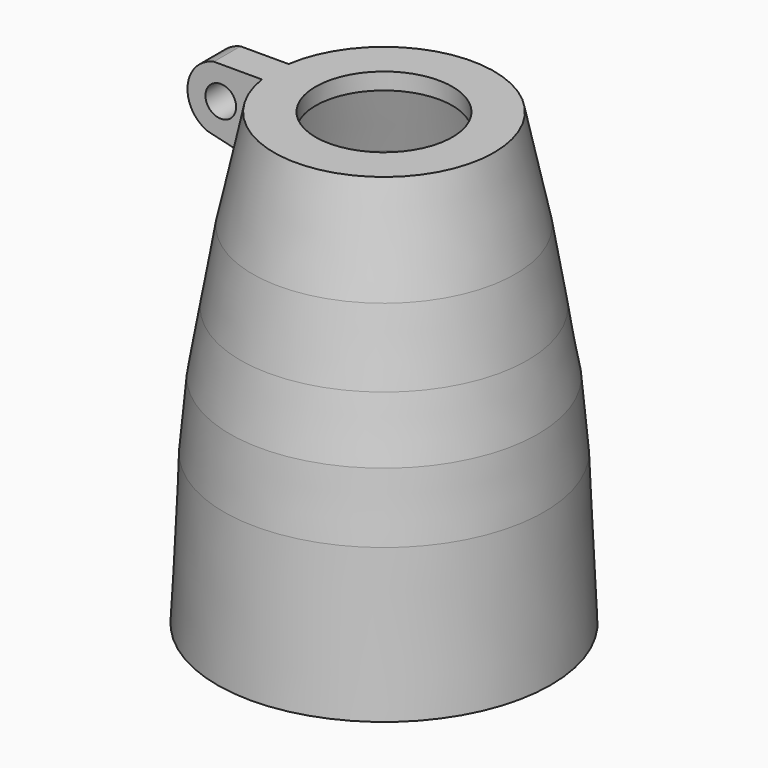
from build123d import *

# Parameters (mm, degrees)
SKETCH002_R    = 4.6
PAD_DEPTH      = 5
PAD_DEPTH_BACK = 5


with BuildPart() as pad:
    # Sketch002 → Pad (new body, two sides)
    with BuildSketch(Plane.XZ) as pad_sk:
        with BuildLine():
            Line((-30, 0), (-47, 0))
            ThreePointArc((-47, 0), (-54.870528, -8.731056), (-49, -18.915037))
            Line((-49, -18.915037), (-36, -22))
            Line((-36, -22), (-30, 0))
        make_face()
        with Locations((-44.925964, -9.782555)):
            Circle(SKETCH002_R, mode=Mode.SUBTRACT)
    extrude(amount=PAD_DEPTH)
    extrude(pad_sk.sketch, amount=-PAD_DEPTH_BACK)


with BuildPart() as fusion:
    # Sketch001 → Revolution (revolve)
    with BuildSketch(Plane.XZ):
        Polygon((-20.5, 0), (-33, 0), (-39.4, -30), (-43.062567, -51.544511), (-46.2, -70), (-48, -90), (-50, -135), (-49, -135), (-47, -90), (-45, -70), (-38, -30), (-30, -5), (-20.5, -5), align=None)
    revolve(axis=Axis((0, 0, 0), (0, 0, 1)))

    # Fusion: union Pad
    add(pad.part)


solid = fusion.part
